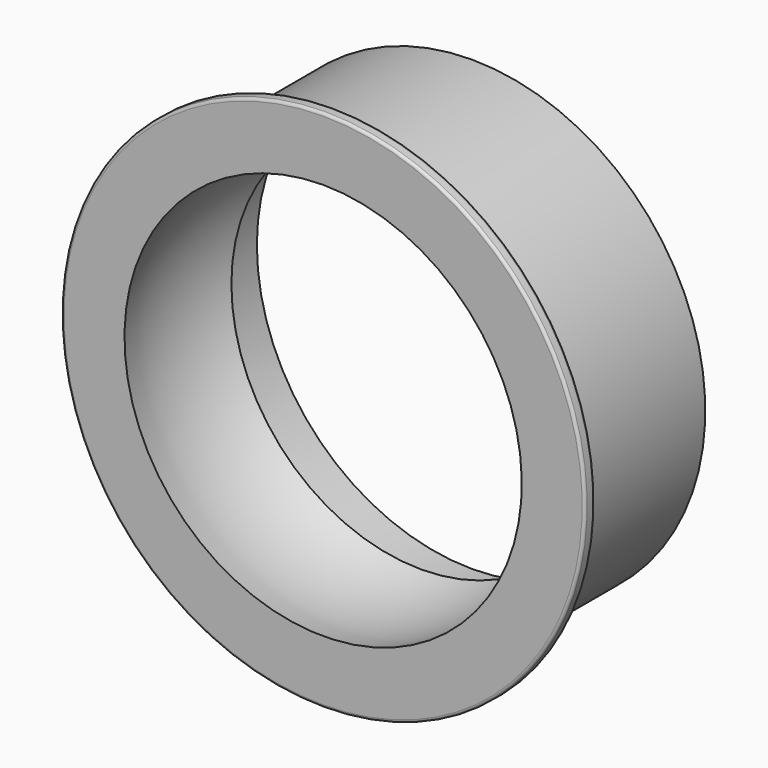
from build123d import *


with BuildPart() as f1:
    # F0 (on Right) → F1 (revolve)
    with BuildSketch(Plane.YZ):
        with BuildLine():
            Line((-5.11, 28.15), (-5.11, 21.583334))
            ThreePointArc((-5.11, 21.583334), (1.616891, 22.120987), (8.194105, 20.610896))
            Line((8.194105, 20.610896), (8.194105, 23.09))
            ThreePointArc((8.194105, 23.09), (8.281973, 23.302132), (8.494105, 23.39))
            Line((8.494105, 23.39), (15.13, 23.39))
            Line((15.13, 23.39), (15.13, 25.33))
            Line((15.13, 25.33), (-3.46, 25.33))
            ThreePointArc((-3.46, 25.33), (-3.672132, 25.417868), (-3.76, 25.63))
            Line((-3.76, 25.63), (-3.76, 28.15))
            ThreePointArc((-3.76, 28.15), (-3.847868, 28.362132), (-4.06, 28.45))
            Line((-4.06, 28.45), (-4.81, 28.45))
            ThreePointArc((-4.81, 28.45), (-5.022132, 28.362132), (-5.11, 28.15))
        make_face()
    revolve(axis=Axis((0, 3.612015, 0), (0, 1, 0)))


solid = f1.part
